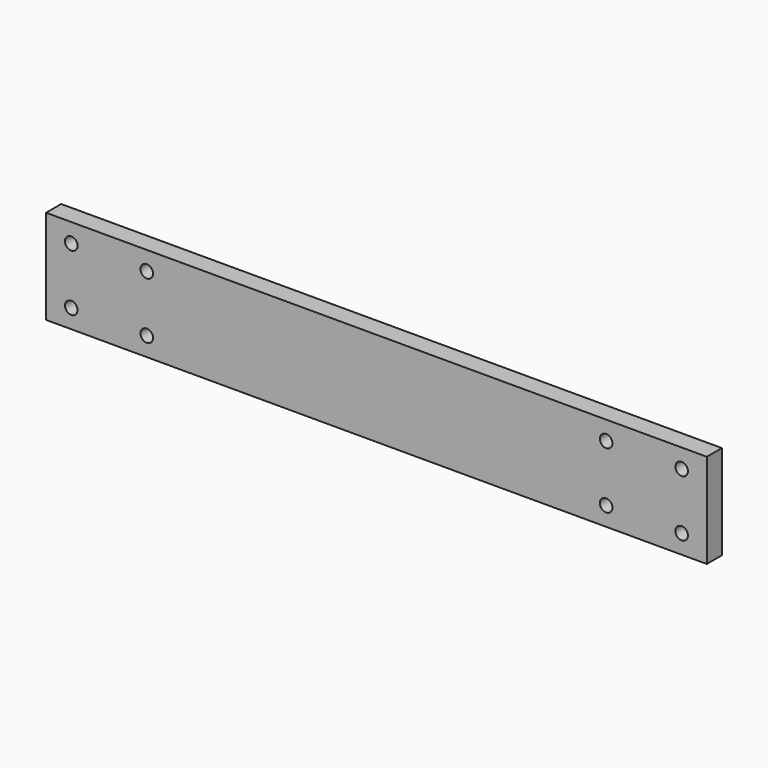
from build123d import *

# Parameters (mm, degrees)
SKETCH_W  = 210
SKETCH_H  = 30
SKETCH_R  = 2
PAD_DEPTH = 6


with BuildPart() as part:
    # Sketch → Pad (new body)
    with BuildSketch(Plane.XZ):
        with Locations((105, 15)):
            Rectangle(SKETCH_W, SKETCH_H)
        with Locations((8, 24)):
            Circle(SKETCH_R, mode=Mode.SUBTRACT)
        with Locations((32, 24)):
            Circle(SKETCH_R, mode=Mode.SUBTRACT)
        with Locations((8, 6)):
            Circle(SKETCH_R, mode=Mode.SUBTRACT)
        with Locations((32, 6)):
            Circle(SKETCH_R, mode=Mode.SUBTRACT)
        with Locations((178, 24)):
            Circle(SKETCH_R, mode=Mode.SUBTRACT)
        with Locations((202, 24)):
            Circle(SKETCH_R, mode=Mode.SUBTRACT)
        with Locations((178, 6)):
            Circle(SKETCH_R, mode=Mode.SUBTRACT)
        with Locations((202, 6)):
            Circle(SKETCH_R, mode=Mode.SUBTRACT)
    extrude(amount=PAD_DEPTH)


solid = part.part
